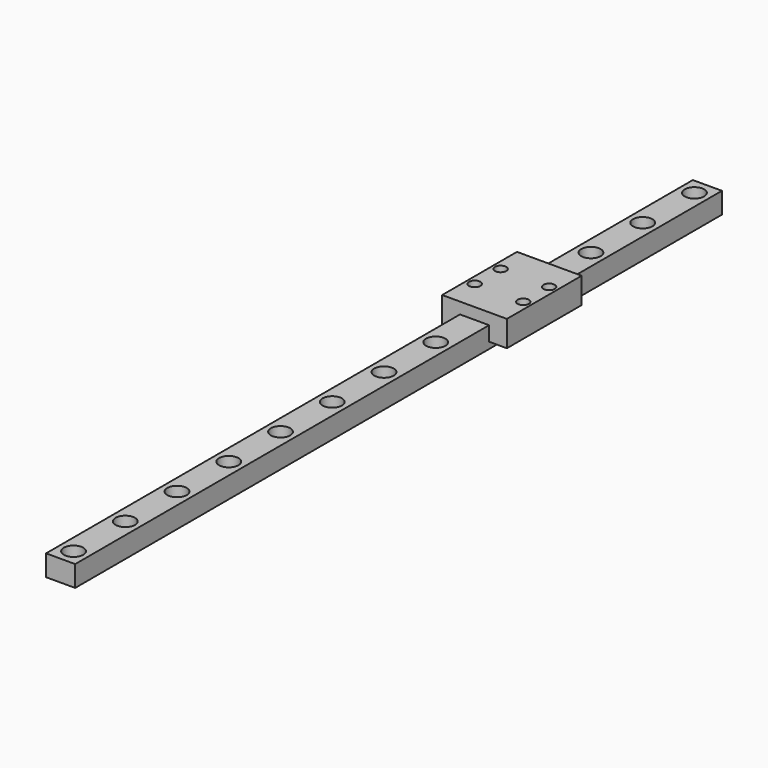
from build123d import *

# Parameters (mm, degrees)
SKETCH_W               = 9
SKETCH_H               = 250
PAD_DEPTH              = 6.5
SKETCH001_R            = 1.75
POCKET_DEPTH           = 6.5
LINEARPATTERN_COUNT    = 13
LINEARPATTERN_PITCH    = 20
SKETCH002_R            = 3
POCKET001_DEPTH        = 3.5
LINEARPATTERN001_COUNT = 13
LINEARPATTERN001_PITCH = 20
SKETCH005_W            = 20
SKETCH005_H            = 28.9
SKETCH005_R            = 1.75
PAD002_DEPTH           = 8


with BuildPart() as part:
    # Sketch → Pad (new body)
    with BuildSketch(Plane.XY):
        with Locations((0, 125)):
            Rectangle(SKETCH_W, SKETCH_H)
    extrude(amount=-PAD_DEPTH)

    # Sketch001 → Pocket (cut)
    with BuildSketch(Plane.XY):
        with Locations((0, 5)):
            Circle(SKETCH001_R)
    pocket = extrude(amount=-POCKET_DEPTH, mode=Mode.SUBTRACT)

    # LinearPattern: Pocket ×13
    with Locations(*[(0, i * LINEARPATTERN_PITCH, 0) for i in range(1, LINEARPATTERN_COUNT)]):
        add(pocket, mode=Mode.SUBTRACT)

    # Sketch002 → Pocket001 (cut)
    with BuildSketch(Plane.XY):
        with Locations((0, 5)):
            Circle(SKETCH002_R)
    pocket001 = extrude(amount=-POCKET001_DEPTH, mode=Mode.SUBTRACT)

    # LinearPattern001: Pocket001 ×13
    with Locations(*[(0, i * LINEARPATTERN001_PITCH, 0) for i in range(1, LINEARPATTERN001_COUNT)]):
        add(pocket001, mode=Mode.SUBTRACT)

    # Sketch005 → Pad002 (join)
    with BuildSketch(Plane.XY.offset(-4.5)):
        with Locations((0, 174.45)):
            Rectangle(SKETCH005_W, SKETCH005_H)
        with Locations((-7.5, 179.45)):
            Circle(SKETCH005_R, mode=Mode.SUBTRACT)
        with Locations((7.5, 179.45)):
            Circle(SKETCH005_R, mode=Mode.SUBTRACT)
        with Locations((7.5, 169.45)):
            Circle(SKETCH005_R, mode=Mode.SUBTRACT)
        with Locations((-7.5, 169.45)):
            Circle(SKETCH005_R, mode=Mode.SUBTRACT)
    extrude(amount=PAD002_DEPTH)


solid = part.part
